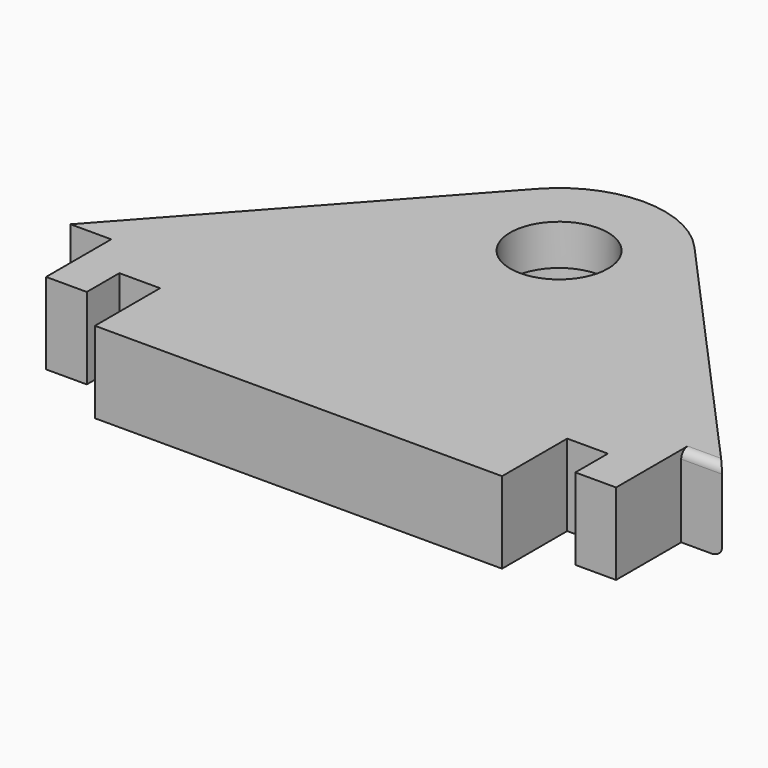
from build123d import *

# Parameters (mm, degrees)
PAD_DEPTH       = 10
SKETCH001_R     = 8
POCKET_DEPTH    = 5
SKETCH003_R     = 6
POCKET001_DEPTH = 5
POCKET002_DEPTH = 10
FILLET_R        = 1


with BuildPart() as part:
    # Sketch → Pad (new body)
    with BuildSketch(Plane.XY):
        with BuildLine():
            Line((40, 0), (-40, 0))
            Line((-40, 0), (-40, 15))
            Line((-9.661357, 48.698171), (-40, 15))
            ThreePointArc((9.661357, 48.698171), (0, 53), (-9.661357, 48.698171))
            Line((9.661357, 48.698171), (40, 15))
            Line((40, 0), (40, 15))
        make_face()
    extrude(amount=PAD_DEPTH)

    # Sketch001 (on Face7 of Pad) → Pocket (cut)
    with BuildSketch(Plane(origin=(0, 0, 0), x_dir=(1, 0, 0), z_dir=(0, 0, -1))):
        with Locations((0, -40)):
            Circle(SKETCH001_R)
    extrude(amount=-POCKET_DEPTH, mode=Mode.SUBTRACT)

    # Sketch003 (on Face10 of Pocket) → Pocket001 (cut)
    with BuildSketch(Plane(origin=(0, 0, 5), x_dir=(1, 0, 0), z_dir=(0, 0, -1))):
        with Locations((0, -40)):
            Circle(SKETCH003_R)
    extrude(amount=-POCKET001_DEPTH, mode=Mode.SUBTRACT)

    # Sketch002 (on Face4 of Pocket001) → Pocket002 (cut)
    with BuildSketch(Plane(origin=(0, 0, 0), x_dir=(1, 0, 0), z_dir=(0, 0, -1))):
        Polygon((-40, -15), (-40, 0), (-25, 0), (-25, -10), (-30, -10), (-30, -5), (-35, -5), (-35, -15), align=None)
        Polygon((40, -15), (40, 0), (25, 0), (25, -10), (30, -10), (30, -5), (35, -5), (35, -15), align=None)
    extrude(amount=-POCKET002_DEPTH, mode=Mode.SUBTRACT)

    # Fillet
    fillet_edges = [part.edges().sort_by_distance(p)[0] for p in [
        (37.5, 15, 10),
        (24.830678, 31.849086, 0),
    ]]
    fillet(fillet_edges, radius=FILLET_R)


solid = part.part
